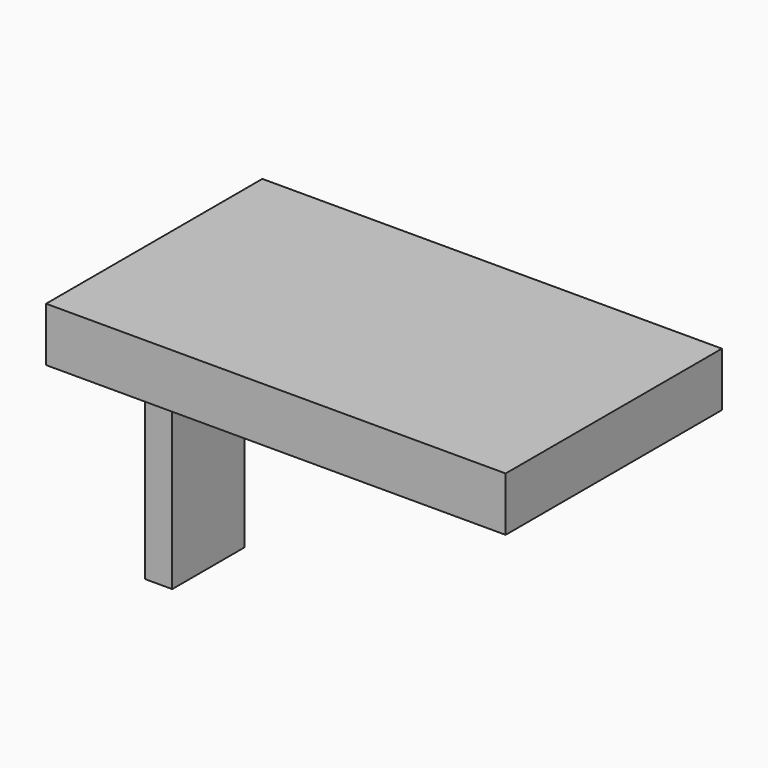
from build123d import *

# Parameters (mm, degrees)
SKETCH018_W      = 100
SKETCH018_H      = 20
EXTRUDE018_DEPTH = 150
SKETCH017_W      = 20
SKETCH017_H      = 100
EXTRUDE017_DEPTH = 20
SKETCH019_W      = 10
SKETCH019_H      = 33.333334
EXTRUDE019_DEPTH = 80


with BuildPart() as extrude018:
    # Sketch018 (on Face2 of Extrude017) → Extrude018 (new body)
    with BuildSketch(Plane.YZ.offset(-163.1)):
        with Locations((18.7, 160)):
            Rectangle(SKETCH018_W, SKETCH018_H)
    extrude(amount=EXTRUDE018_DEPTH)


with BuildPart() as extrude017:
    # Sketch017 (on Face4 of Cut015) → Extrude017 (new body)
    with BuildSketch(Plane.XY.offset(150)):
        with Locations((-173.1, 18.7)):
            Rectangle(SKETCH017_W, SKETCH017_H)
    extrude(amount=EXTRUDE017_DEPTH)


with BuildPart() as fusion012:
    # Sketch019 (on Face5 of Extrude017) → Extrude019 (new body)
    with BuildSketch(Plane(origin=(0, 0, 150), x_dir=(1, 0, 0), z_dir=(0, 0, -1))):
        with Locations((-168.1, -18.7)):
            Rectangle(SKETCH019_W, SKETCH019_H)
    extrude(amount=EXTRUDE019_DEPTH)

    # Fusion012: union Extrude018, Extrude017
    add(extrude018.part)
    add(extrude017.part)


solid = fusion012.part
